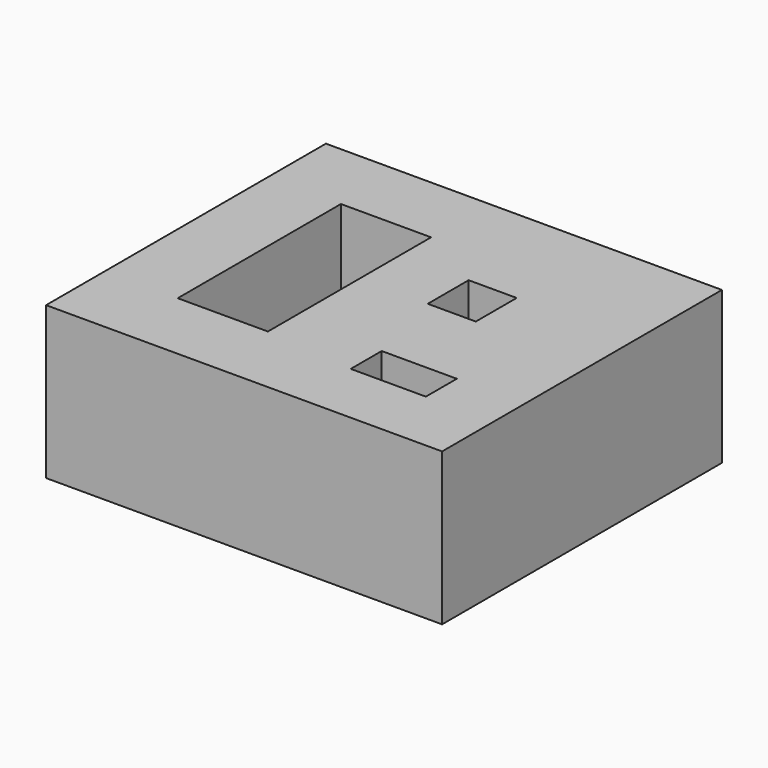
from build123d import *

# Parameters (mm, degrees)
F0_W     = 66.063976
F0_H     = 58.353758
F0_W_2   = 12.530126
F0_H_2   = 6.457536
F0_W_3   = 15.042593
F0_H_3   = 34.033684
F0_W_4   = 8.01572
F0_H_4   = 8.524986
F1_DEPTH = 25.4


with BuildPart() as f1:
    # F0 (on Top) → F1 (new body)
    with BuildSketch(Plane.XY):
        with Locations((5.822671, -2.180201)):
            Rectangle(F0_W, F0_H)
        with Locations((21.280693, -17.379151)):
            Rectangle(F0_W_2, F0_H_2, mode=Mode.SUBTRACT)
        with Locations((-7.521297, -2.09985)):
            Rectangle(F0_W_3, F0_H_3, mode=Mode.SUBTRACT)
        with Locations((15.38572, 4.262493)):
            Rectangle(F0_W_4, F0_H_4, mode=Mode.SUBTRACT)
    extrude(amount=F1_DEPTH)


solid = f1.part
